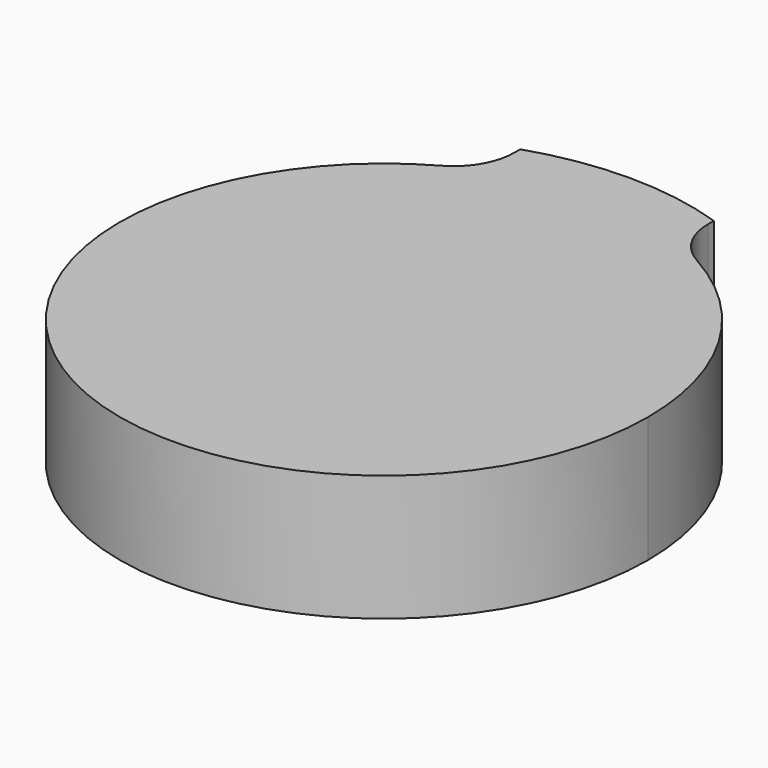
from build123d import *

# Parameters (mm, degrees)
F1_DEPTH = 9.906
F2_R     = 4.7625


with BuildPart() as f1:
    # F0 (on Top) → F1 (new body)
    with BuildSketch(Plane.XY):
        with BuildLine():
            ThreePointArc((-7.62, 19.32945), (-11.691231, -17.175772), (20.7772, 0))
            ThreePointArc((20.7772, 0), (17.175772, 11.691231), (7.62, 19.32945))
            ThreePointArc((7.62, 19.32945), (0, 20.7772), (-7.62, 19.32945))
        make_face()
        with BuildLine():
            ThreePointArc((-7.62, 19.32945), (0, 20.7772), (7.62, 19.32945))
            Line((7.62, 19.32945), (7.62, 22.922019))
            ThreePointArc((7.62, 22.922019), (3.859586, 23.845061), (0, 24.1554))
            ThreePointArc((0, 24.1554), (-3.859586, 23.845061), (-7.62, 22.922019))
            Line((-7.62, 22.922019), (-7.62, 19.32945))
        make_face()
    extrude(amount=F1_DEPTH)

    # F2
    f2_edges = [f1.edges().sort_by_distance(p)[0] for p in [
        (7.62, 19.32945, 4.953),
        (-7.62, 19.32945, 4.953),
    ]]
    fillet(f2_edges, radius=F2_R)


solid = f1.part
